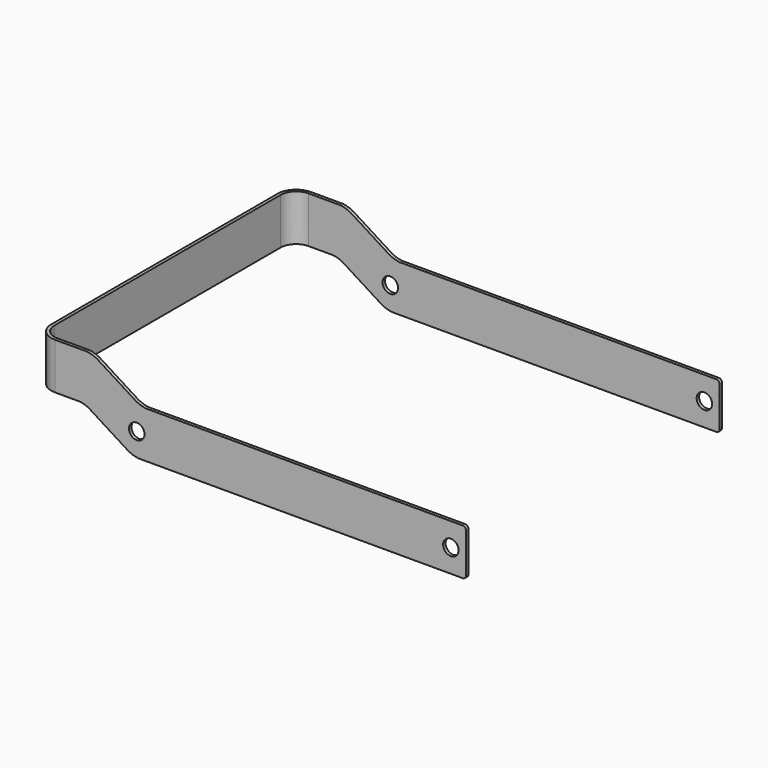
from build123d import *

# Parameters (mm, degrees)
SKETCH002_R  = 2.5
PAD001_DEPTH = 51.75
PAD_DEPTH    = 30


with BuildPart() as face_body:
    # Sketch002 → Pad001 (new body, symmetric)
    with BuildSketch(Plane.XZ):
        with BuildLine():
            Line((-57.529972, 0), (47.470028, 0))
            ThreePointArc((47.470028, 0), (48.177135, 0.292893), (48.470028, 1))
            Line((48.470028, 14), (48.470028, 1))
            ThreePointArc((48.470028, 14), (48.177135, 14.707107), (47.470028, 15))
            Line((-55.029972, 15), (47.470028, 15))
            ThreePointArc((-58.176393, 16), (-56.645942, 15.365461), (-55.029972, 15))
            Line((-70.88355, 24.00071), (-58.176393, 16))
            ThreePointArc((-70.88355, 24.00071), (-72.414001, 24.635249), (-74.029972, 25.00071))
            Line((-89.029972, 25), (-74.029972, 25.00071))
            Line((-90.529972, 25), (-89.029972, 25))
            Line((-90.529972, 25), (-90.529972, 10))
            Line((-90.529972, 10), (-89.029972, 10))
            Line((-89.029972, 10), (-76.529972, 10.000632))
            ThreePointArc((-73.383499, 9.000791), (-74.904353, 9.665557), (-76.529972, 10.000632))
            Line((-73.383499, 9.000791), (-60.676393, 1))
            ThreePointArc((-60.676393, 1), (-59.145942, 0.365461), (-57.529972, 0))
        make_face()
        with Locations((-58.005918, 7.5)):
            Circle(SKETCH002_R, mode=Mode.SUBTRACT)
        with Locations((43.594082, 7.5)):
            Circle(SKETCH002_R, mode=Mode.SUBTRACT)
    extrude(amount=PAD001_DEPTH, both=True)


with BuildPart() as base_body:
    # Sketch001 → Pad (new body)
    with BuildSketch(Plane.XY):
        with BuildLine():
            Line((-89.459922, 45.75), (-89.459922, -45.75))
            ThreePointArc((-89.459922, -45.75), (-87.995456, -49.285534), (-84.459922, -50.75))
            Line((48.594082, -50.75), (-84.459922, -50.75))
            Line((48.594082, -50.75), (48.594082, -51.75))
            Line((-84.459922, -51.75), (48.594082, -51.75))
            ThreePointArc((-90.459922, -45.75), (-88.702563, -49.992641), (-84.459922, -51.75))
            Line((-90.459922, 45.750008), (-90.459922, -45.75))
            ThreePointArc((-84.459922, 51.75), (-88.70256, 49.992644), (-90.459922, 45.750008))
            Line((-84.459922, 51.75), (48.594082, 51.75))
            Line((48.594082, 50.75), (48.594082, 51.75))
            Line((48.594082, 50.75), (-84.459922, 50.75))
            ThreePointArc((-84.459922, 50.75), (-87.995456, 49.285534), (-89.459922, 45.75))
        make_face()
    extrude(amount=PAD_DEPTH)

    # Boolean: intersect Face.Body
    add(face_body.part, mode=Mode.INTERSECT)


solid = base_body.part
